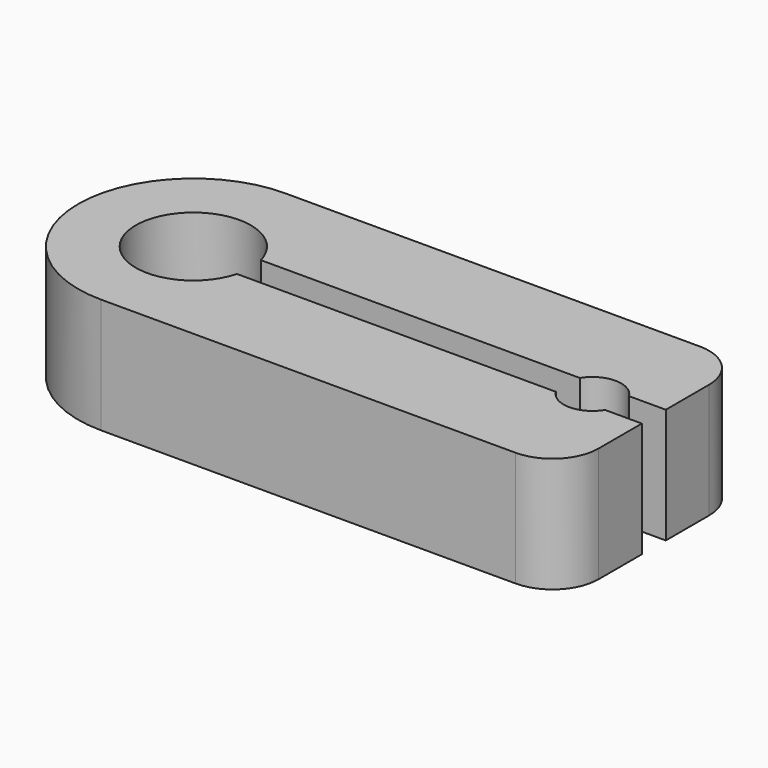
from build123d import *

# Parameters (mm, degrees)
F1_DEPTH = 12.7


with BuildPart() as f1:
    # F0 (on Top) → F1 (new body)
    with BuildSketch(Plane.XY):
        with BuildLine():
            Line((-19.05, -12.7), (26.67, -12.7))
            ThreePointArc((26.67, -12.7), (30.262102, -11.212102), (31.75, -7.62))
            Line((31.75, -7.62), (31.75, -1.651))
            Line((31.75, -1.651), (27.691787, -1.651))
            ThreePointArc((27.691787, -1.651), (24.979809, -3.175), (22.267831, -1.651))
            Line((22.267831, -1.651), (-12.918385, -1.651))
            ThreePointArc((-12.918385, -1.651), (-25.4, 0), (-12.918385, 1.651))
            Line((-12.918385, 1.651), (22.267831, 1.651))
            ThreePointArc((22.267831, 1.651), (24.979809, 3.175), (27.691787, 1.651))
            Line((27.691787, 1.651), (31.75, 1.651))
            Line((31.75, 1.651), (31.75, 7.62))
            ThreePointArc((31.75, 7.62), (30.262102, 11.212102), (26.67, 12.7))
            Line((26.67, 12.7), (-19.05, 12.7))
            ThreePointArc((-19.05, 12.7), (-28.030256, 8.980256), (-31.75, 0))
            ThreePointArc((-31.75, 0), (-28.030256, -8.980256), (-19.05, -12.7))
        make_face()
    extrude(amount=F1_DEPTH)


solid = f1.part
